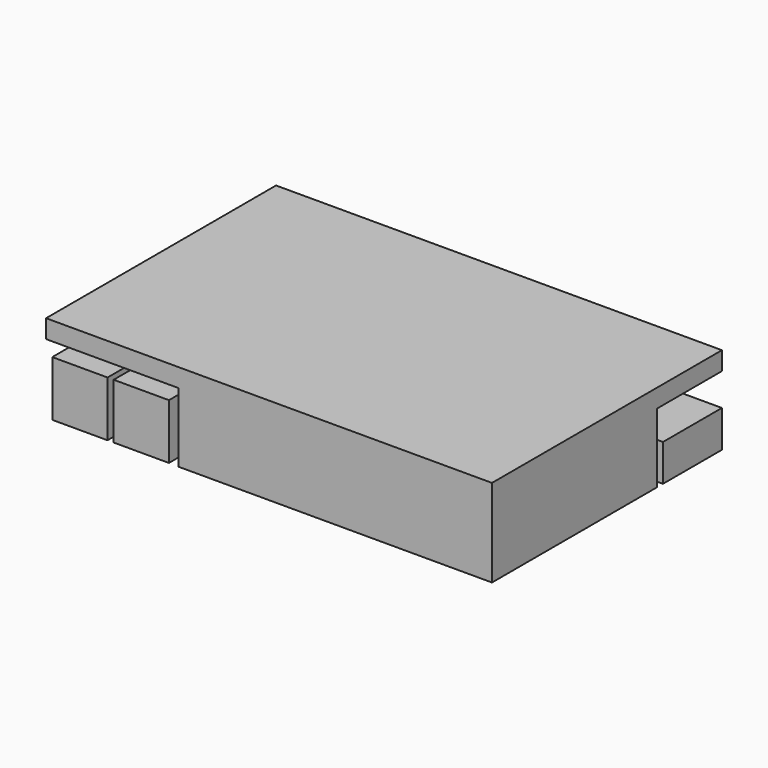
from build123d import *

# Parameters (mm, degrees)
F0_W      = 85
F0_H      = 56
F1_DEPTH  = 18.8
F2_W      = 85
F2_H      = 56
F3_DEPTH  = 5
F4_W      = 15
F4_H      = 75
F5_DEPTH  = 15
F7_W      = 28
F7_H      = 17
F8_DEPTH  = 5
F9_W      = 15
F9_H      = 12
F10_DEPTH = 5
F11_W     = 20
F11_H     = 20
F12_DEPTH = 10


with BuildPart() as f1:
    # F0 (on Top) → F1 (new body)
    with BuildSketch(Plane.XY):
        Rectangle(F0_W, F0_H)
    extrude(amount=F1_DEPTH)

    # F2 (on face) → F3 (join)
    with BuildSketch(Plane.XY.offset(18.8)):
        Rectangle(F2_W, F2_H)
        Polygon((42.5, 50), (-78.5, 50), (-78.5, -28), (-42.5, -28), (-42.5, 28), (42.5, 28), align=None)
    extrude(amount=F3_DEPTH)


with BuildPart() as f5:
    # F4 (on Top) → F5 (new body)
    with BuildSketch(Plane.XY):
        with Locations((-69.386211, 9.586167)):
            Rectangle(F4_W, F4_H)
        with Locations((-52.727706, 9.586167)):
            Rectangle(F4_W, F4_H)
    extrude(amount=F5_DEPTH)


with BuildPart() as f8:
    # F7 (on Top) → F8 (new body)
    with BuildSketch(Plane.XY):
        with Locations((-9.047463, 41.392187)):
            Rectangle(F7_W, F7_H)
    extrude(amount=F8_DEPTH)


with BuildPart() as f10:
    # F9 (on Top) → F10 (new body)
    with BuildSketch(Plane.XY):
        with Locations((-34.757165, 41.630149)):
            Rectangle(F9_W, F9_H)
    extrude(amount=F10_DEPTH)


with BuildPart() as f12:
    # F11 (on Top) → F12 (new body)
    with BuildSketch(Plane.XY):
        with Locations((32.5, 40)):
            Rectangle(F11_W, F11_H)
    extrude(amount=F12_DEPTH)


solid = Compound([f1.part, f5.part, f8.part, f10.part, f12.part])
